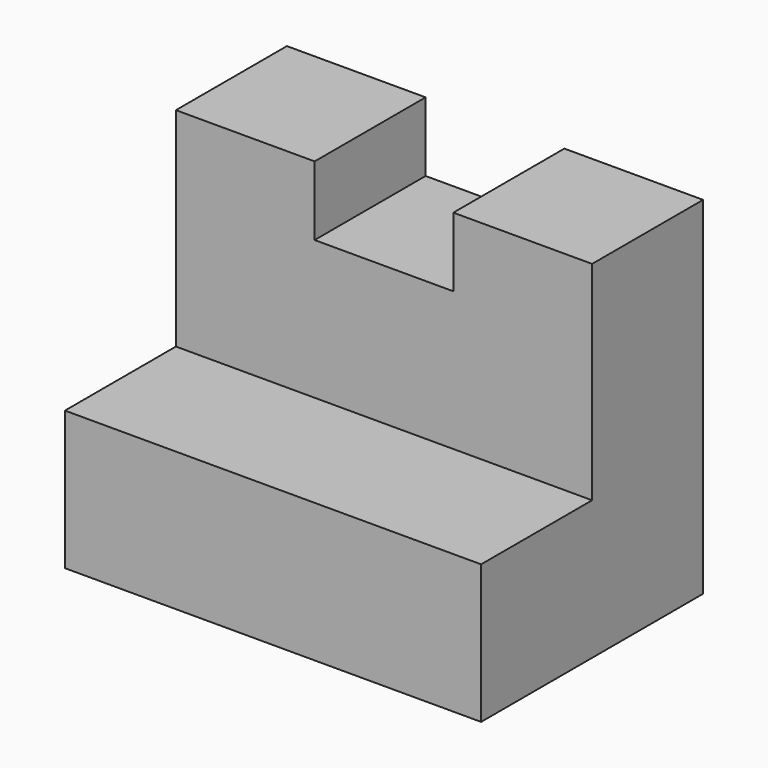
from build123d import *

# Parameters (mm, degrees)
F1_DEPTH = 38.1
F2_W     = 12.7
F2_H     = 6.35
F3_DEPTH = 12.7


with BuildPart() as f1:
    # F0 (on Right) → F1 (new body)
    with BuildSketch(Plane.YZ):
        Polygon((0, 0), (0, 31.75), (-12.7, 31.75), (-12.7, 12.7), (-25.4, 12.7), (-25.4, 0), align=None)
    extrude(amount=F1_DEPTH)

    # F2 (on Front) → F3 (cut)
    with BuildSketch(Plane.XZ):
        with Locations((19.05, 28.587072)):
            Rectangle(F2_W, F2_H)
    extrude(amount=F3_DEPTH, mode=Mode.SUBTRACT)


solid = f1.part
